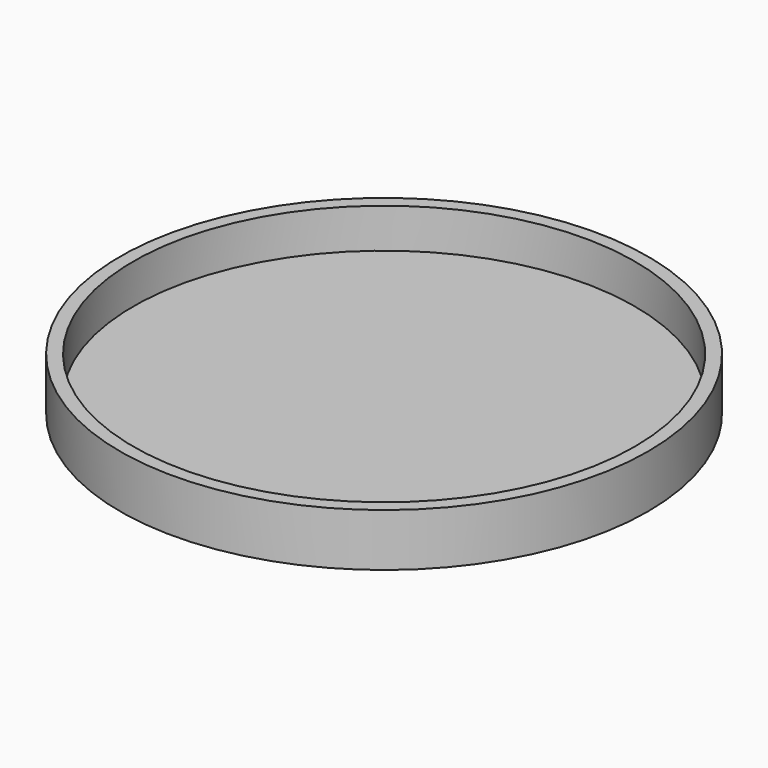
from build123d import *

# Parameters (mm, degrees)
F0_R     = 50
F0_R_2   = 45
F1_DEPTH = 10
F2_T     = -2.5


with BuildPart() as f1:
    # F0 (on Top) → F1 (new body)
    with BuildSketch(Plane.XY):
        Circle(F0_R)
        Circle(F0_R_2, mode=Mode.SUBTRACT)
        Circle(F0_R_2)
    extrude(amount=F1_DEPTH)

    # F2
    f2_openings = [f1.faces().sort_by_distance(p)[0] for p in [
        (0, 0, 10),
    ]]
    offset(amount=F2_T, openings=f2_openings)


solid = f1.part
